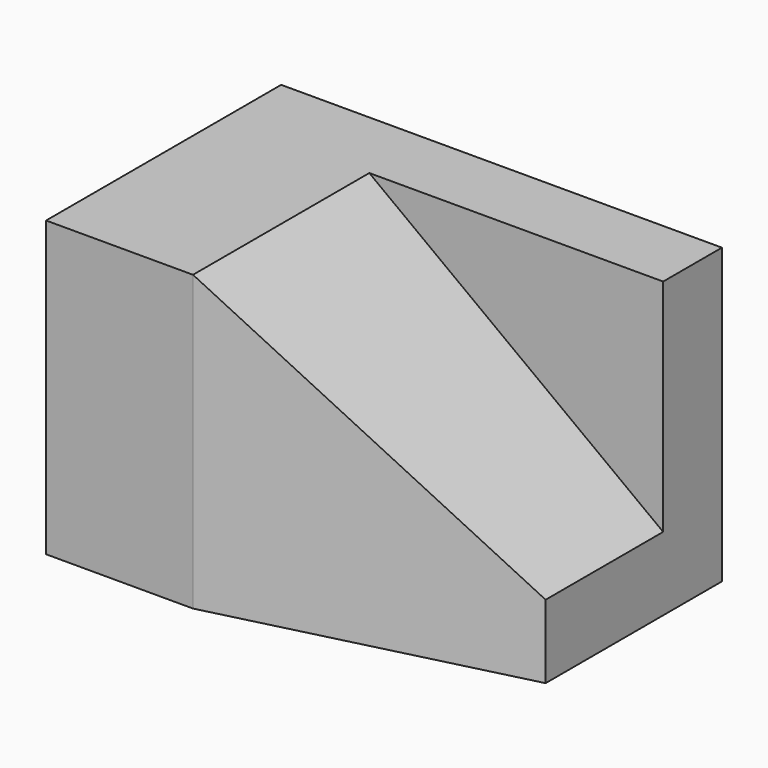
from build123d import *

# Parameters (mm, degrees)
SKETCH_W        = 60
SKETCH_H        = 40
PAD_DEPTH       = 40
POCKET_DEPTH    = 30
POCKET001_DEPTH = 40.001


with BuildPart() as part:
    # Sketch → Pad (new body)
    with BuildSketch(Plane.XY):
        Rectangle(SKETCH_W, SKETCH_H)
    extrude(amount=PAD_DEPTH)

    # Sketch001 (on Face1 of Pad) → Pocket (cut)
    with BuildSketch(Plane.XZ.offset(20)):
        Polygon((-10, 40), (30, 40), (30, 10), align=None)
    extrude(amount=-POCKET_DEPTH, mode=Mode.SUBTRACT)

    # Sketch002 (on Face5 of Pocket) → Pocket001 (cut, through all)
    with BuildSketch(Plane.XY.offset(40)):
        Polygon((-10, -20), (30, -20), (30, -10), align=None)
    extrude(amount=-POCKET001_DEPTH, mode=Mode.SUBTRACT)


solid = part.part
